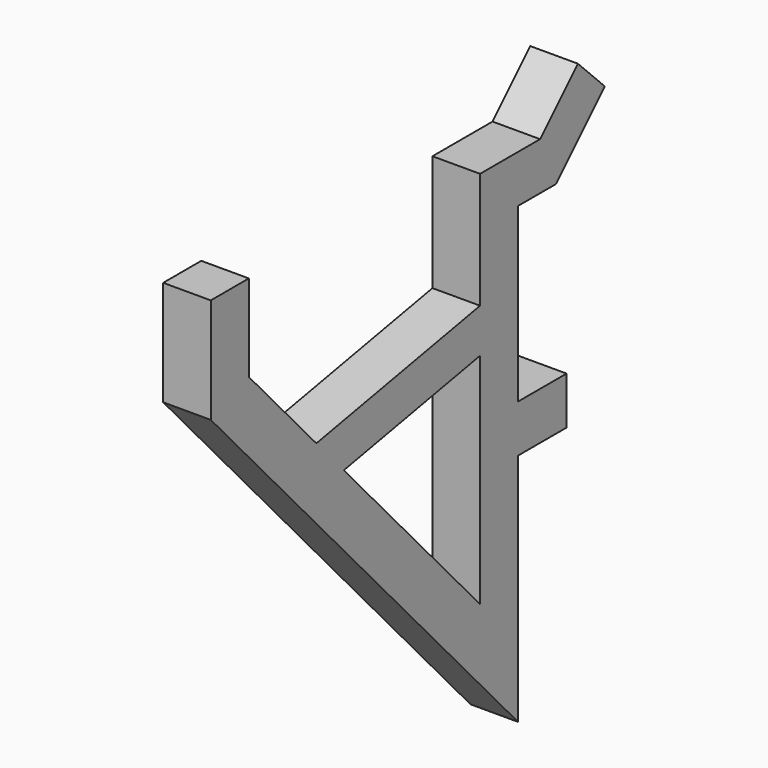
from build123d import *

# Parameters (mm, degrees)
F1_W          = 5.5
F1_H          = 5.5
F2_DEPTH      = 7
F2_DEPTH_BACK = 5.5
F3_W          = 5.5
F3_H          = 5.5
F4_DEPTH      = 5.5
F5_W          = 5.5
F5_H          = 5.5
F6_DEPTH      = 19.9
F8_DEPTH      = 2.75
F8_DEPTH_BACK = 2.75
F10_DEPTH     = 2.75


with BuildPart() as f2:
    # F1 (on Front) → F2 (new body, two sides)
    with BuildSketch(Plane.XZ) as f2_sk:
        Rectangle(F1_W, F1_H)
    extrude(amount=-F2_DEPTH)
    extrude(f2_sk.sketch, amount=F2_DEPTH_BACK)



with BuildPart() as f4:
    # F3 (on Front) → F4 (new body, through all)
    with BuildSketch(Plane.XZ):
        with Locations((0, 25.4)):
            Rectangle(F3_W, F3_H)
    extrude(amount=F4_DEPTH)


with BuildPart() as f2_1:
    add(f2.part)

    add(f4.part)  # F6 merges F4
    # F5 (on face) → F6 (join, through all)
    with BuildSketch(Plane.XY.offset(2.75)):
        with Locations((0, -2.75)):
            Rectangle(F5_W, F5_H)
    extrude(amount=F6_DEPTH)

    # F7 (on Right) → F8 (join, two sides)
    with BuildSketch(Plane.YZ) as f8_sk:
        Polygon((3.175, 28.15), (0, 28.15), (0, 22.65), (5.4531745931, 22.65), (12.5242424049, 29.7210678119), (8.6351551084, 33.6101551084), align=None)
    extrude(amount=F8_DEPTH)
    extrude(f8_sk.sketch, amount=-F8_DEPTH_BACK)

    # F9 (on Right) → F10 (join, symmetric)
    with BuildSketch(Plane.YZ):
        Polygon((0, -29.8453345895), (0, 0), (-5.5, 0), (-5.5, -15.6319836834), (-25.1807147937, 5.9900909129), (-28.2262068887, 5.4240246833), (-29.1399087291, 10.3398306206), (-38.8949113266, 21.0570934874), (-38.8949113266, 31.0857333243), (-44.3949113267, 31.0857333243), (-44.3949113267, 18.9288128167), align=None)
        Polygon((-28.2262068887, 5.4240246833), (-25.1807147937, 5.9900909129), (-29.1399087291, 10.3398306206), align=None)
        Polygon((-29.1399087291, 10.3398306206), (-25.1807147937, 5.9900909129), (-4.4631796137, 9.8408633531), (-5.3768814541, 14.7566692904), align=None)
    extrude(amount=F10_DEPTH, both=True)


solid = f2_1.part
